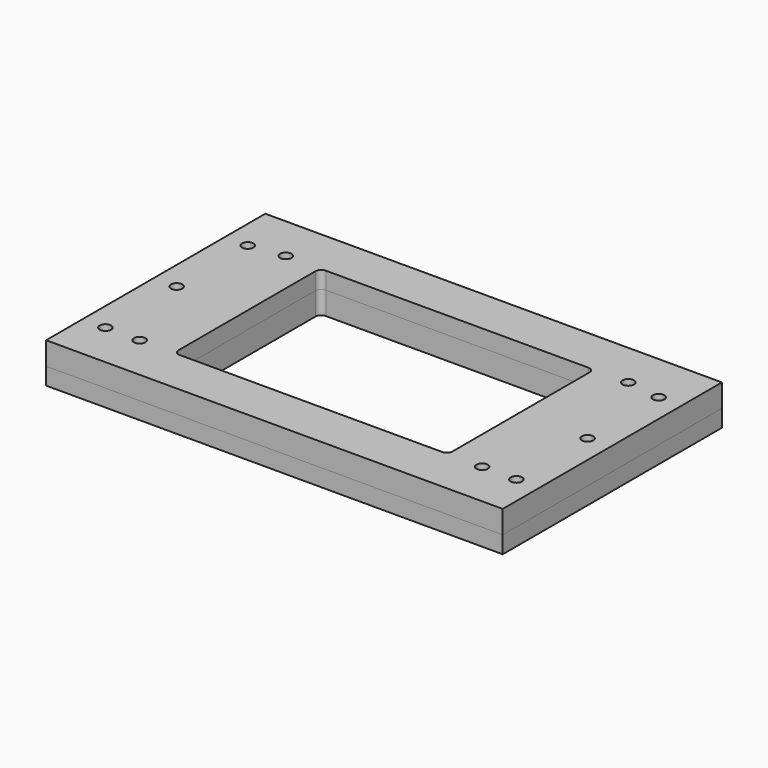
from build123d import *

# Parameters (mm, degrees)
F0_W     = 254
F0_H     = 152.4
F0_W_2   = 152.4
F0_H_2   = 101.6
F1_DEPTH = 12.7
F2_W     = 254
F2_H     = 152.4
F2_W_2   = 177.8
F2_H_2   = 127
F3_DEPTH = 3.175
F4_R     = 3.175
F6_D     = 6.35
F7_R     = 3.175
F8_W     = 254
F8_H     = 152.4
F8_W_2   = 152.4
F8_H_2   = 101.6
F9_DEPTH = 12.7
F11_R    = 3.175
F13_D    = 6.35
F15_D    = 6.35


with BuildPart() as f1:
    # F0 (on Top) → F1 (new body)
    with BuildSketch(Plane.XY):
        with Locations((20.9647924063, -1.2180674821)):
            Rectangle(F0_W, F0_H)
        with Locations((20.9647924063, -1.2180674821)):
            Rectangle(F0_W_2, F0_H_2, mode=Mode.SUBTRACT)
    extrude(amount=F1_DEPTH)

    # F2 (on face) → F3 (cut)
    with BuildSketch(Plane.XY.offset(12.7)):
        with Locations((20.9647924063, -1.2180674821)):
            Rectangle(F2_W, F2_H)
        with Locations((20.9647924063, -1.2180674821)):
            Rectangle(F2_W_2, F2_H_2, mode=Mode.SUBTRACT)
    extrude(amount=-F3_DEPTH, mode=Mode.SUBTRACT)

    # F4
    f4_edges = [f1.edges().sort_by_distance(p)[0] for p in [
        (-55.235208, 49.581933, 6.35),
        (-55.235208, -52.018067, 6.35),
        (97.164792, -52.018067, 6.35),
        (97.164792, 49.581933, 6.35),
    ]]
    fillet(f4_edges, radius=F4_R)

    # F6 (through all)
    with Locations(Plane.XY.offset(9.525)):
        with Locations((135.2647924063, 49.5819325179), (135.2647924063, -1.2180674821), (135.2647924063, -52.0180674821), (-93.3352075937, -1.2180674821), (-93.3352075937, -52.0180674821), (-93.3352075937, 49.5819325179)):
            Hole(F6_D / 2)

    # F7
    f7_edges = [f1.edges().sort_by_distance(p)[0] for p in [
        (109.864792, 62.281933, 11.1125),
        (-67.935208, 62.281933, 11.1125),
        (-67.935208, -64.718067, 11.1125),
        (109.864792, -64.718067, 11.1125),
    ]]
    fillet(f7_edges, radius=F7_R)


with BuildPart() as f9:
    # F8 (on face) → F9 (new body)
    with BuildSketch(Plane.XY.offset(9.525)):
        with Locations((20.9647924063, -1.2180674821)):
            Rectangle(F8_W, F8_H)
        with Locations((20.9647924063, -1.2180674821)):
            Rectangle(F8_W_2, F8_H_2, mode=Mode.SUBTRACT)
    extrude(amount=F9_DEPTH)

    # F10: cut F1
    add(f1.part, mode=Mode.SUBTRACT)

    # F11
    f11_edges = [f9.edges().sort_by_distance(p)[0] for p in [
        (97.164792, -52.018067, 17.4625),
        (97.164792, 49.581933, 17.4625),
        (-55.235208, 49.581933, 17.4625),
        (-55.235208, -52.018067, 17.4625),
    ]]
    fillet(f11_edges, radius=F11_R)

    # F13 (through all)
    with Locations(Plane(origin=(0, 0, 9.525), x_dir=(1, 0, 0), z_dir=(0, 0, -1))):
        with Locations((-93.3352075937, 52.0180674821), (-93.3352075937, 2.5609232888), (-93.3352075937, -46.8962209046), (135.2647924063, 52.0180674821), (135.2647924063, 2.5609232888), (135.2647924063, -46.8962209046)):
            Hole(F13_D / 2)

    # F15 (through all)
    with Locations(Plane.XY.offset(22.225)):
        with Locations((-74.2852075937, 49.5819325179), (-74.2852075937, -52.0180674821), (116.2147924063, -52.0180674821), (116.2147924063, 49.5819325179)):
            Hole(F15_D / 2)


solid = Compound([f1.part, f9.part])
